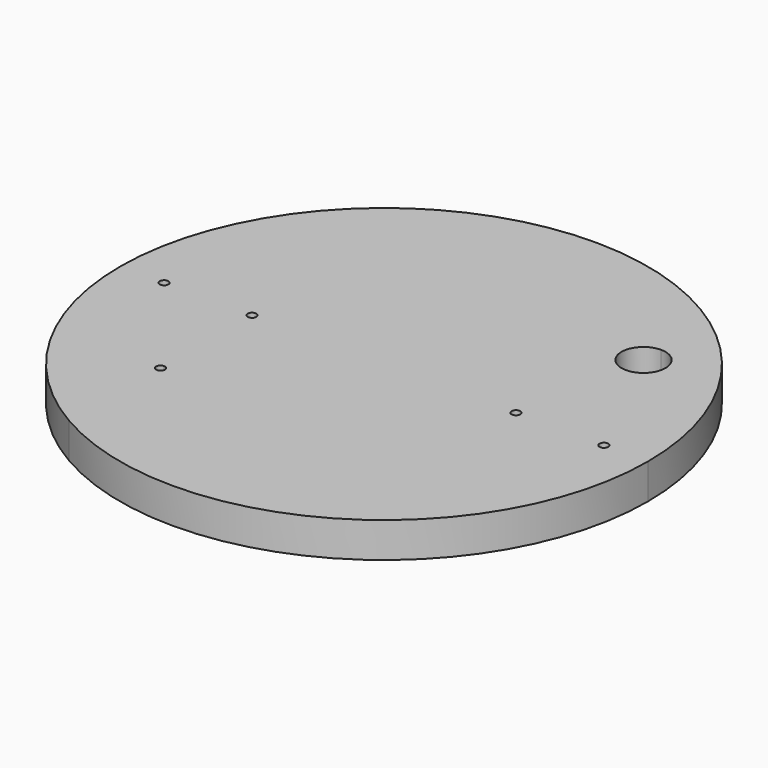
from build123d import *

# Parameters (mm, degrees)
F0_R     = 1
F1_DEPTH = 8


with BuildPart() as f1:
    # F0 (on Top) → F1 (new body)
    with BuildSketch(Plane.XY):
        with BuildLine():
            ThreePointArc((-30, -51.961524), (30, -51.961524), (60, 0))
            ThreePointArc((60, 0), (53.385391, 27.386128), (35, 48.733972))
            ThreePointArc((35, 48.733972), (-50.409778, 32.540041), (-30, -51.961524))
        make_face()
        with BuildLine():
            ThreePointArc((-29, -25.980762), (-29.292893, -26.687869), (-30, -26.980762))
            ThreePointArc((-30, -26.980762), (-31, -25.980762), (-30, -24.980762))
            ThreePointArc((-30, -24.980762), (-29.292893, -25.273655), (-29, -25.980762))
        make_face(mode=Mode.SUBTRACT)
        with Locations((-50, 0)):
            Circle(F0_R, mode=Mode.SUBTRACT)
        with BuildLine():
            ThreePointArc((-29, 0), (-29.292893, -0.707107), (-30, -1))
            ThreePointArc((-30, -1), (-30.707107, 0.707107), (-29, 0))
        make_face(mode=Mode.SUBTRACT)
        with Locations((30, 0)):
            Circle(F0_R, mode=Mode.SUBTRACT)
        with Locations((50, 0)):
            Circle(F0_R, mode=Mode.SUBTRACT)
        with BuildLine():
            ThreePointArc((35, 25), (30, 30), (35, 35))
            ThreePointArc((35, 35), (38.535534, 33.535534), (40, 30))
            ThreePointArc((40, 30), (38.535534, 26.464466), (35, 25))
        make_face(mode=Mode.SUBTRACT)
    extrude(amount=F1_DEPTH)


solid = f1.part
